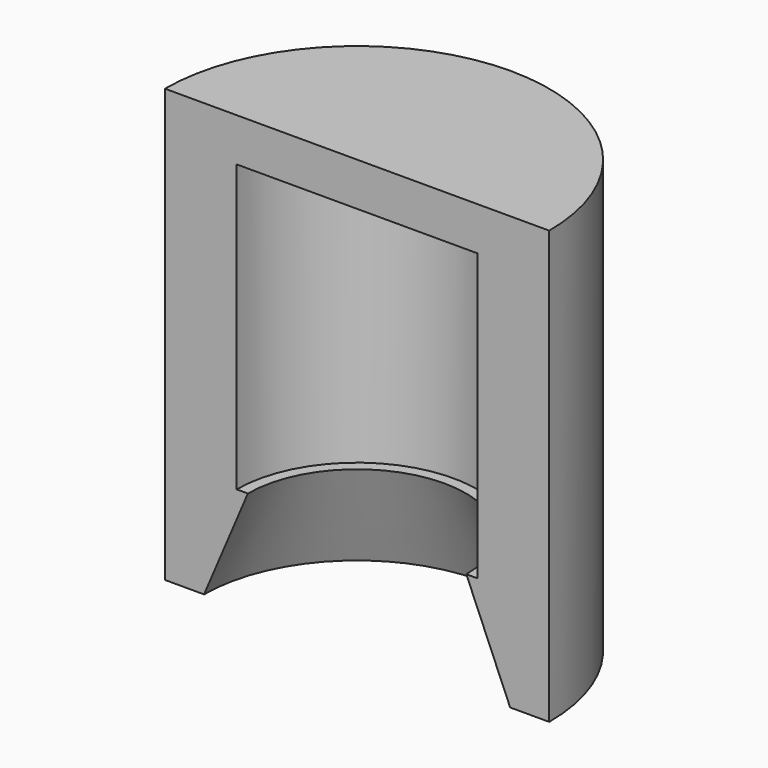
from build123d import *

# Parameters (mm, degrees)
F0_W     = 1.772768
F0_H     = 17.649614
F1_ANGLE = 180


with BuildPart() as f1:
    # F0 (on Front) → F1 (revolve)
    with BuildSketch(Plane.XZ):
        Polygon((5.461, 0), (4.953, 0), (6.940644, -4.675005), (6.940644, 12.974609), (5.461, 12.974609), align=None)
        with Locations((7.827028, 4.149802)):
            Rectangle(F0_W, F0_H)
        Polygon((5.461, 12.974609), (6.940644, 12.974609), (8.713412, 12.974609), (8.713412, 14.938829), (0, 14.938829), (0, 12.974609), align=None)
    revolve(axis=Axis((0, 0, 2.192378), (0, 0, 1)), revolution_arc=F1_ANGLE)


solid = f1.part
